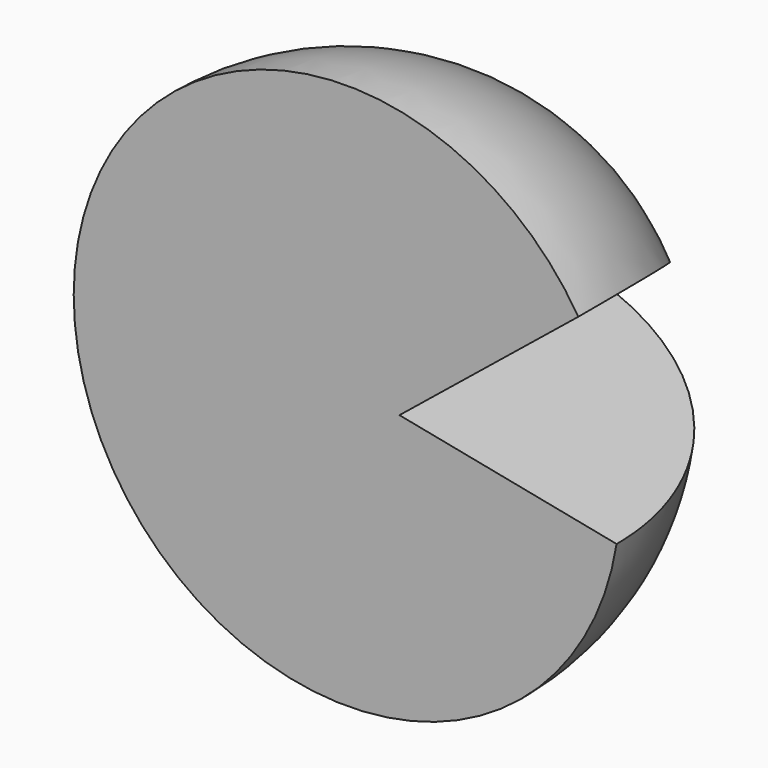
from build123d import *

# Parameters (mm, degrees)
F3_DEPTH      = 55.6485557387
F3_DEPTH_BACK = 55.6485557387
F5_DEPTH      = 55.6485557387
F5_DEPTH_BACK = 55.6485557387


with BuildPart() as f1:
    # F0 (on Front) → F1 (revolve)
    with BuildSketch(Plane.XZ):
        with BuildLine():
            ThreePointArc((-55.6475557387, 0), (0, -55.6475557387), (55.6475557387, 0))
            Line((55.6475557387, 0), (-55.6475557387, 0))
        make_face()
    revolve(axis=Axis((0, 0, 0), (1, 0, 0)))

    # F2 (on Front) → F3 (cut, two sides)
    with BuildSketch(Plane.XZ) as f3_sk:
        Polygon((58.5763789713, 38.7402810156), (10.7213417068, 0), (70.8241611719, -11.8484022096), align=None)
    extrude(amount=-F3_DEPTH, mode=Mode.SUBTRACT)
    extrude(f3_sk.sketch, amount=F3_DEPTH_BACK, mode=Mode.SUBTRACT)

    # F4 (on Top) → F5 (cut, two sides)
    with BuildSketch(Plane.XY) as f5_sk:
        Polygon((71.6229304671, 0), (-63.6352449656, 0), (-62.3039603233, -69.3597495556), (71.6229304671, -69.3597495556), align=None)
    extrude(amount=-F5_DEPTH, mode=Mode.SUBTRACT)
    extrude(f5_sk.sketch, amount=F5_DEPTH_BACK, mode=Mode.SUBTRACT)


solid = f1.part
